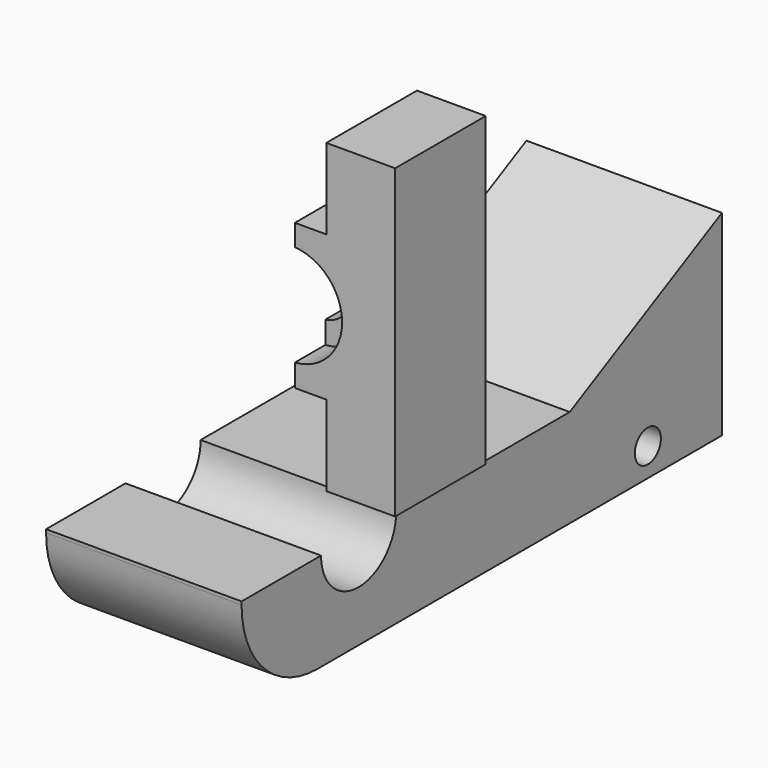
from build123d import *

# Parameters (mm, degrees)
F1_DEPTH  = 17.9
F2_R      = 4.5284755856
F3_DEPTH  = 25
F4_R      = 8.0412942497
F5_DEPTH  = 6
F6_W      = 4.970414564
F6_H      = 12.7366865054
F6_W_2    = 10.7174552977
F7_DEPTH  = 25
F8_R      = 2.5735
F8_R_2    = 7.4211631747
F9_DEPTH  = 30.9
F10_R     = 2.5735
F11_DEPTH = 46.3


with BuildPart() as f1:
    # F0 (on Front) → F1 (new body)
    with BuildSketch(Plane.XZ):
        Polygon((0, 48.4615415335), (0, 24.2307707667), (31.5310657024, 24.2307707667), (31.5310657024, 48.4615415335), (20.6582844257, 48.4615415335), (20.6582844257, 35.7248550281), (10.7174552977, 35.7248550281), (10.7174552977, 48.4615415335), align=None)
        Polygon((0, 24.2307707667), (0, 0), (10.7174552977, 0), (10.7174552977, 12.7366865054), (20.6582844257, 12.7366865054), (20.6582844257, 0), (31.5310657024, 0), (31.5310657024, 24.2307707667), align=None)
    extrude(amount=F1_DEPTH)

    # F2 (on face) → F3 (cut)
    with BuildSketch(Plane.XZ.offset(17.9)):
        with Locations((15.1090752333, 24.306146428)):
            Circle(F2_R)
    extrude(amount=-F3_DEPTH, mode=Mode.SUBTRACT)

    # F4 (on face) → F5 (cut)
    with BuildSketch(Plane.XZ.offset(17.9)):
        with Locations((15.1090752333, 24.306146428)):
            Circle(F4_R)
    extrude(amount=-F5_DEPTH, mode=Mode.SUBTRACT)

    # F6 (on face) → F7 (cut)
    with BuildSketch(Plane.XZ.offset(17.9)):
        Polygon((10.7174552977, 35.7248550281), (15.6878698617, 35.7248550281), (15.6878698617, 52.4957589805), (0, 52.4957589805), (0, 48.4615415335), (10.7174552977, 48.4615415335), align=None)
        with Locations((13.2026625797, 6.3683432527)):
            Rectangle(F6_W, F6_H)
        with BuildLine():
            Line((15.6878698617, 32.3265834478), (15.6878698617, 35.7248550281))
            Line((15.6878698617, 35.7248550281), (10.7174552977, 35.7248550281))
            Line((10.7174552977, 35.7248550281), (0, 35.7248550281))
            Line((0, 35.7248550281), (0, 0))
            Line((0, 0), (10.7174552977, 0))
            Line((10.7174552977, 0), (10.7174552977, 12.7366865054))
            Line((10.7174552977, 12.7366865054), (15.6878698617, 12.7366865054))
            Line((15.6878698617, 12.7366865054), (15.6878698617, 16.2857094082))
            ThreePointArc((15.6878698617, 16.2857094082), (7.0677809836, 24.306146428), (15.6878698617, 32.3265834478))
        make_face()
        with BuildLine():
            Line((15.6878698617, 16.2857094082), (15.6878698617, 32.3265834478))
            ThreePointArc((15.6878698617, 32.3265834478), (7.0677809836, 24.306146428), (15.6878698617, 16.2857094082))
        make_face()
        with Locations((5.3587276489, 42.0931982808)):
            Rectangle(F6_W_2, F6_H)
    extrude(amount=-F7_DEPTH, mode=Mode.SUBTRACT)


with BuildPart() as f9:
    # F8 (on Right) → F9 (new body)
    with BuildSketch(Plane.YZ):
        with BuildLine():
            Line((47.4500246346, 15.4890818521), (-32.4500246346, 15.4890818521))
            ThreePointArc((-32.4500246346, 15.4890818521), (-43.0566263524, 11.0956835699), (-47.4500246346, 0.4890818521))
            Line((-47.4500246346, 0.4890818521), (-47.4500246346, -0.4890818521))
            ThreePointArc((-47.4500246346, -0.4890818521), (-43.0566263524, -11.0956835699), (-32.4500246346, -15.4890818521))
            Line((-32.4500246346, -15.4890818521), (47.4500246346, -15.4890818521))
            Line((47.4500246346, -15.4890818521), (47.4500246346, 15.4890818521))
        make_face()
        with Locations((32.8156910837, -10.9960911795)):
            Circle(F8_R, mode=Mode.SUBTRACT)
        with Locations((-24.3320055306, 0)):
            Circle(F8_R_2, mode=Mode.SUBTRACT)
        with Locations((32.8156910837, 10.9960911795)):
            Circle(F8_R, mode=Mode.SUBTRACT)
    extrude(amount=F9_DEPTH)

    # F10 (on face) → F11 (cut)
    with BuildSketch(Plane(origin=(0, 0, 0), x_dir=(0, -1, 0), z_dir=(-1, 0, 0))):
        with BuildLine():
            Line((47.4500246346, 0), (57.6194860041, 0))
            Line((57.6194860041, 0), (61.2181574106, 12.6681160182))
            Line((61.2181574106, 12.6681160182), (25.2314675599, 31.0402661562))
            Line((25.2314675599, 31.0402661562), (-47.4500246346, 15.4890818521))
            Line((-47.4500246346, 15.4890818521), (32.4500246346, 15.4890818521))
            ThreePointArc((32.4500246346, 15.4890818521), (43.0566263524, 11.0956835699), (47.4500246346, 0.4890818521))
            Line((47.4500246346, 0.4890818521), (47.4500246346, 0))
        make_face()
        with BuildLine():
            Line((31.7531687053, 0), (47.4500246346, 0))
            Line((47.4500246346, 0), (47.4500246346, 0.4890818521))
            ThreePointArc((47.4500246346, 0.4890818521), (43.0566263524, 11.0956835699), (32.4500246346, 15.4890818521))
            Line((32.4500246346, 15.4890818521), (-47.4500246346, 15.4890818521))
            Line((-47.4500246346, 15.4890818521), (-17.3843447119, 0))
            Line((-17.3843447119, 0), (16.9108423559, 0))
            ThreePointArc((16.9108423559, 0), (24.3320055306, 7.4211631747), (31.7531687053, 0))
        make_face()
        with Locations((-32.8156910837, 10.9960911795)):
            Circle(F10_R, mode=Mode.SUBTRACT)
    extrude(amount=-F11_DEPTH, mode=Mode.SUBTRACT)


solid = Compound([f1.part, f9.part])
